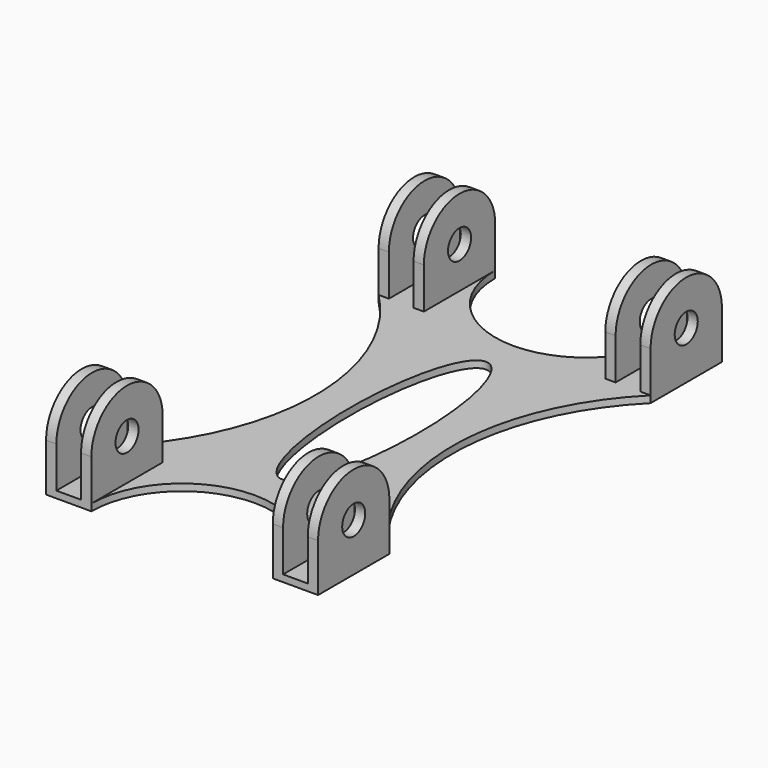
from build123d import *

# Parameters (mm, degrees)
SKETCH_R        = 4.2
PAD_DEPTH       = 39.65
SKETCH001_W     = 25
SKETCH001_H     = 52.9
SKETCH001_H_2   = 7.2
POCKET_DEPTH    = 147.1950592603
POCKET001_DEPTH = 2.001


with BuildPart() as part:
    # Sketch → Pad (new body, symmetric)
    with BuildSketch(Plane.YZ):
        with BuildLine():
            ThreePointArc((-47.5970296302, 14), (-60.5970296302, 27), (-73.5970296302, 14))
            Line((-73.5970296302, 0), (-73.5970296302, 14))
            Line((73.5970296302, 0), (-73.5970296302, 0))
            Line((73.5970296302, 14), (73.5970296302, 0))
            ThreePointArc((73.5970296302, 14), (60.5970296302, 27), (47.5970296302, 14))
            Line((47.5970296302, 2), (47.5970296302, 14))
            Line((-47.5970296302, 2), (47.5970296302, 2))
            Line((-47.5970296302, 14), (-47.5970296302, 2))
        make_face()
        with Locations((60.5970296302, 14)):
            Circle(SKETCH_R, mode=Mode.SUBTRACT)
        with Locations((-60.5970296302, 14)):
            Circle(SKETCH_R, mode=Mode.SUBTRACT)
    extrude(amount=PAD_DEPTH, both=True)

    # Sketch001 (on Face2 of Pad) → Pocket (cut, through all)
    with BuildSketch(Plane(origin=(0, -73.5970296302, 0), x_dir=(0, 0, -1), z_dir=(0, -1, 0))):
        with Locations((-14.5, 0)):
            Rectangle(SKETCH001_W, SKETCH001_H)
        with Locations((-14.5, 33.05)):
            Rectangle(SKETCH001_W, SKETCH001_H_2)
        with Locations((-14.5, -33.05)):
            Rectangle(SKETCH001_W, SKETCH001_H_2)
    extrude(amount=-POCKET_DEPTH, mode=Mode.SUBTRACT)

    # Sketch002 (on Face42 of Pocket) → Pocket001 (cut, through all)
    with BuildSketch(Plane(origin=(0, 0, 2), x_dir=(0, -1, 0), z_dir=(0, 0, 1))):
        with BuildLine():
            Line((-73.5970296302, 26.45), (-73.5970296302, -26.45))
            ThreePointArc((-73.5970296302, -26.45), (-47.1470296302, 0), (-73.5970296302, 26.45))
        make_face()
        with BuildLine():
            Line((-47.5970296302, -39.65), (47.5970296302, -39.65))
            ThreePointArc((47.5970296302, -39.65), (0, -20), (-47.5970296302, -39.65))
        make_face()
        with BuildLine():
            Line((73.5970296302, -26.45), (73.5970296302, 26.45))
            ThreePointArc((73.5970296302, 26.45), (47.1470314394, 0), (73.5970296302, -26.45))
        make_face()
        with BuildLine():
            Line((47.5970296302, 39.65), (-47.5970296302, 39.65))
            ThreePointArc((-47.5970296302, 39.65), (0, 20), (47.5970296302, 39.65))
        make_face()
        with BuildLine():
            add(Edge.make_bspline(
                [(37.1470296302, 0), (37.1470296302, 17.3205080757), (-18.5735148151, 8.6602540378), (-74.2940592603, 0), (-18.5735148151, -8.6602540378), (37.1470296302, -17.3205080757), (37.1470296302, 0)],
                knots=[0, 0, 0, 2.0943951024, 2.0943951024, 4.1887902048, 4.1887902048, 6.2831853072, 6.2831853072, 6.2831853072], degree=2, weights=[1, 0.5, 1, 0.5, 1, 0.5, 1]))
        make_face()
    extrude(amount=-POCKET001_DEPTH, mode=Mode.SUBTRACT)


solid = part.part
